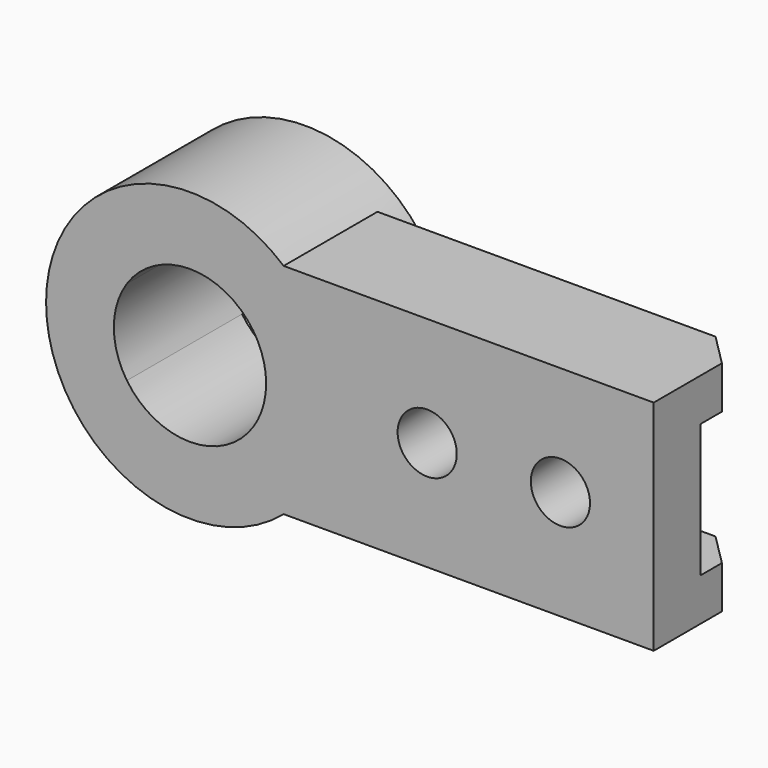
from build123d import *

# Parameters (mm, degrees)
F1_DEPTH = 54
F2_DEPTH = 10
F3_START = 10
F3_DEPTH = 44
F5_DEPTH = 95.001
F6_W     = 10
F6_H     = 50
F6_W_2   = 12
F7_DEPTH = 114
F8_R     = 11.1
F9_DEPTH = 22.001


with BuildPart() as f1:
    # F0 (on Front) → F1 (new body)
    with BuildSketch(Plane.XZ):
        with BuildLine():
            ThreePointArc((-23.6755279772, 16), (0, 28.575), (23.6755279772, 16))
            Line((23.6755279772, 16), (51.5751878329, 16))
            ThreePointArc((51.5751878329, 16), (45.1247409006, 29.6607106903), (35.1425667816, 41))
            ThreePointArc((35.1425667816, 41), (-14.9585346426, 51.8868214612), (-51.5751878329, 16))
            Line((-51.5751878329, 16), (-23.6755279772, 16))
        make_face()
        with BuildLine():
            Line((51.5751878329, -16), (23.6755279772, -16))
            ThreePointArc((23.6755279772, -16), (0, -28.575), (-23.6755279772, -16))
            Line((-23.6755279772, -16), (-51.5751878329, -16))
            ThreePointArc((-51.5751878329, -16), (-14.9585346426, -51.8868214612), (35.1425667816, -41))
            ThreePointArc((35.1425667816, -41), (45.1247409006, -29.6607106903), (51.5751878329, -16))
        make_face()
        with BuildLine():
            ThreePointArc((23.6755279772, 16), (27.3226905424, 8.3666723687), (28.575, 0))
            ThreePointArc((28.575, 0), (27.3226905424, -8.3666723687), (23.6755279772, -16))
            Line((23.6755279772, -16), (51.5751878329, -16))
            ThreePointArc((51.5751878329, -16), (53.3903556037, -8.0913489921), (54, 0))
            ThreePointArc((54, 0), (53.3903556037, 8.0913489921), (51.5751878329, 16))
            Line((51.5751878329, 16), (23.6755279772, 16))
        make_face()
        with BuildLine():
            ThreePointArc((-23.6755279772, -16), (-28.575, 0), (-23.6755279772, 16))
            Line((-23.6755279772, 16), (-51.5751878329, 16))
            ThreePointArc((-51.5751878329, 16), (-54, 0), (-51.5751878329, -16))
            Line((-51.5751878329, -16), (-23.6755279772, -16))
        make_face()
    extrude(amount=F1_DEPTH)

    # F0 (on Front) → F2 (join)
    with BuildSketch(Plane.XZ):
        with BuildLine():
            ThreePointArc((-23.6755279772, -16), (-28.575, 0), (-23.6755279772, 16))
            Line((-23.6755279772, 16), (-51.5751878329, 16))
            ThreePointArc((-51.5751878329, 16), (-54, 0), (-51.5751878329, -16))
            Line((-51.5751878329, -16), (-23.6755279772, -16))
        make_face()
        with BuildLine():
            ThreePointArc((23.6755279772, 16), (27.3226905424, 8.3666723687), (28.575, 0))
            ThreePointArc((28.575, 0), (27.3226905424, -8.3666723687), (23.6755279772, -16))
            Line((23.6755279772, -16), (51.5751878329, -16))
            ThreePointArc((51.5751878329, -16), (53.3903556037, -8.0913489921), (54, 0))
            ThreePointArc((54, 0), (53.3903556037, 8.0913489921), (51.5751878329, 16))
            Line((51.5751878329, 16), (23.6755279772, 16))
        make_face()
    extrude(amount=-F2_DEPTH)

    # F0 (on Front) → F3 (join)
    with BuildSketch(Plane.XZ.offset(F3_START)):
        with BuildLine():
            ThreePointArc((35.1425667816, 41), (45.1247409006, 29.6607106903), (51.5751878329, 16))
            ThreePointArc((51.5751878329, 16), (53.3903556037, 8.0913489921), (54, 0))
            ThreePointArc((54, 0), (53.3903556037, -8.0913489921), (51.5751878329, -16))
            ThreePointArc((51.5751878329, -16), (45.1247409006, -29.6607106903), (35.1425667816, -41))
            Line((35.1425667816, -41), (174, -41))
            Line((174, -41), (174, 41))
            Line((174, 41), (35.1425667816, 41))
        make_face()
    extrude(amount=F3_DEPTH)

    # F4 (on face) → F5 (cut, through all)
    with BuildSketch(Plane(origin=(0, 0, -41), x_dir=(1, 0, 0), z_dir=(0, 0, -1))):
        Polygon((174, 22), (162, 10), (174, 10), align=None)
    extrude(amount=-F5_DEPTH, mode=Mode.SUBTRACT)

    # F6 (on face) → F7 (cut)
    with BuildSketch(Plane.YZ.offset(174)):
        with Locations((-27, 0)):
            Rectangle(F6_W, F6_H)
        with Locations((-16, 0)):
            Rectangle(F6_W_2, F6_H)
    extrude(amount=-F7_DEPTH, mode=Mode.SUBTRACT)

    # F8 (on face) → F9 (cut, through all)
    with BuildSketch(Plane(origin=(0, -32, 0), x_dir=(-1, 0, 0), z_dir=(0, 1, 0))):
        with Locations((-139, 0)):
            Circle(F8_R)
        with Locations((-89, 0)):
            Circle(F8_R)
    extrude(amount=-F9_DEPTH, mode=Mode.SUBTRACT)


solid = f1.part
